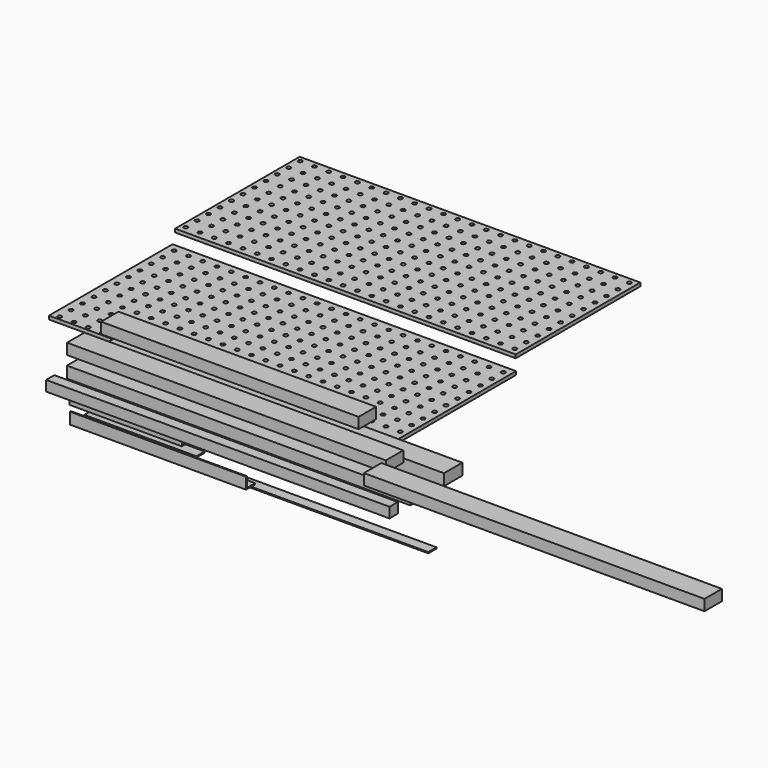
from build123d import *

# Parameters (mm, degrees)
F4_DEPTH  = 196.11
F1_W      = 40
F1_H      = 20
F5_DEPTH  = 600
F0_W      = 40
F0_H      = 20
F6_DEPTH  = 600
F3_W      = 18
F3_H      = 18
F7_DEPTH  = 600
F9_DEPTH  = 308
F11_DEPTH = 234
F12_W     = 600
F12_H     = 270
F12_R     = 3.5
F13_DEPTH = 6
F14_W     = 18
F14_H     = 2
F15_DEPTH = 196.11
F16_W     = 18
F16_H     = 2
F17_DEPTH = 600
F18_W     = 38.1
F18_H     = 19.05
F19_DEPTH = 450
F20_W     = 38.1
F20_H     = 19.05
F21_DEPTH = 556.9
F22_W     = 38.1
F22_H     = 19.05
F23_DEPTH = 595
F24_W     = 595
F24_H     = 272
F24_R     = 3.5
F25_DEPTH = 6


with BuildPart() as f4:
    # F2 (on Right) → F4 (new body)
    with BuildSketch(Plane.YZ):
        Polygon((-56.643954, -13.364066), (-58.643954, -13.364066), (-58.643954, -33.364066), (-38.643954, -33.364066), (-38.643954, -31.364066), (-56.643954, -31.364066), align=None)
    extrude(amount=F4_DEPTH)


with BuildPart() as f5:
    # F1 (on Right) → F5 (new body)
    with BuildSketch(Plane.YZ):
        with Locations((29.062327, 19.138603)):
            Rectangle(F1_W, F1_H)
    extrude(amount=F5_DEPTH)


with BuildPart() as f6:
    # F0 (on Right) → F6 (new body)
    with BuildSketch(Plane.YZ):
        with Locations((-44.326979, 19.392093)):
            Rectangle(F0_W, F0_H)
    extrude(amount=F6_DEPTH)


with BuildPart() as f7:
    # F3 (on Right) → F7 (new body)
    with BuildSketch(Plane.YZ):
        with Locations((-100.903583, 16.894918)):
            Rectangle(F3_W, F3_H)
    extrude(amount=F7_DEPTH)


with BuildPart() as f9:
    # F8 (on Right) → F9 (new body)
    with BuildSketch(Plane.YZ):
        Polygon((-56.192401, -43.8631), (-58.192401, -43.8631), (-58.192401, -63.8631), (-38.192401, -63.8631), (-38.192401, -61.8631), (-56.192401, -61.8631), align=None)
    extrude(amount=F9_DEPTH)


with BuildPart() as f11:
    # F10 (on Right) → F11 (new body)
    with BuildSketch(Plane.YZ):
        Polygon((-24.753585, -13.523948), (-26.753585, -13.523948), (-26.753585, -33.523948), (-6.753585, -33.523948), (-6.753585, -31.523948), (-24.753585, -31.523948), align=None)
    extrude(amount=F11_DEPTH)


with BuildPart() as f13:
    # F12 (on Top) → F13 (new body)
    with BuildSketch(Plane.XY):
        with Locations((160.514176, 205.668966)):
            Rectangle(F12_W, F12_H)
        with Locations((-126.030816, 77.274782)):
            Circle(F12_R, mode=Mode.SUBTRACT)
        with Locations((-101.030816, 77.274782)):
            Circle(F12_R, mode=Mode.SUBTRACT)
        with Locations((-76.030816, 77.274782)):
            Circle(F12_R, mode=Mode.SUBTRACT)
        with Locations((-126.030816, 102.274782)):
            Circle(F12_R, mode=Mode.SUBTRACT)
        with Locations((-101.030816, 102.274782)):
            Circle(F12_R, mode=Mode.SUBTRACT)
        with Locations((-76.030816, 102.274782)):
            Circle(F12_R, mode=Mode.SUBTRACT)
        with Locations((-51.030816, 77.274782)):
            Circle(F12_R, mode=Mode.SUBTRACT)
        with Locations((-26.030816, 77.274782)):
            Circle(F12_R, mode=Mode.SUBTRACT)
        with Locations((-1.030816, 77.274782)):
            Circle(F12_R, mode=Mode.SUBTRACT)
        with Locations((-51.030816, 102.274782)):
            Circle(F12_R, mode=Mode.SUBTRACT)
        with Locations((-26.030816, 102.274782)):
            Circle(F12_R, mode=Mode.SUBTRACT)
        with Locations((-1.030816, 102.274782)):
            Circle(F12_R, mode=Mode.SUBTRACT)
        with Locations((-126.030816, 127.274782)):
            Circle(F12_R, mode=Mode.SUBTRACT)
        with Locations((-101.030816, 127.274782)):
            Circle(F12_R, mode=Mode.SUBTRACT)
        with Locations((-76.030816, 127.274782)):
            Circle(F12_R, mode=Mode.SUBTRACT)
        with Locations((-51.030816, 127.274782)):
            Circle(F12_R, mode=Mode.SUBTRACT)
        with Locations((-26.030816, 127.274782)):
            Circle(F12_R, mode=Mode.SUBTRACT)
        with Locations((-1.030816, 127.274782)):
            Circle(F12_R, mode=Mode.SUBTRACT)
        with Locations((23.969184, 77.274782)):
            Circle(F12_R, mode=Mode.SUBTRACT)
        with Locations((48.969184, 77.274782)):
            Circle(F12_R, mode=Mode.SUBTRACT)
        with Locations((73.969184, 77.274782)):
            Circle(F12_R, mode=Mode.SUBTRACT)
        with Locations((23.969184, 102.274782)):
            Circle(F12_R, mode=Mode.SUBTRACT)
        with Locations((48.969184, 102.274782)):
            Circle(F12_R, mode=Mode.SUBTRACT)
        with Locations((73.969184, 102.274782)):
            Circle(F12_R, mode=Mode.SUBTRACT)
        with Locations((98.969184, 77.274782)):
            Circle(F12_R, mode=Mode.SUBTRACT)
        with Locations((123.969184, 77.274782)):
            Circle(F12_R, mode=Mode.SUBTRACT)
        with Locations((148.969184, 77.274782)):
            Circle(F12_R, mode=Mode.SUBTRACT)
        with Locations((98.969184, 102.274782)):
            Circle(F12_R, mode=Mode.SUBTRACT)
        with Locations((123.969184, 102.274782)):
            Circle(F12_R, mode=Mode.SUBTRACT)
        with Locations((148.969184, 102.274782)):
            Circle(F12_R, mode=Mode.SUBTRACT)
        with Locations((23.969184, 127.274782)):
            Circle(F12_R, mode=Mode.SUBTRACT)
        with Locations((48.969184, 127.274782)):
            Circle(F12_R, mode=Mode.SUBTRACT)
        with Locations((73.969184, 127.274782)):
            Circle(F12_R, mode=Mode.SUBTRACT)
        with Locations((98.969184, 127.274782)):
            Circle(F12_R, mode=Mode.SUBTRACT)
        with Locations((123.969184, 127.274782)):
            Circle(F12_R, mode=Mode.SUBTRACT)
        with Locations((148.969184, 127.274782)):
            Circle(F12_R, mode=Mode.SUBTRACT)
        with Locations((-126.030816, 152.274782)):
            Circle(F12_R, mode=Mode.SUBTRACT)
        with Locations((-101.030816, 152.274782)):
            Circle(F12_R, mode=Mode.SUBTRACT)
        with Locations((-76.030816, 152.274782)):
            Circle(F12_R, mode=Mode.SUBTRACT)
        with Locations((-51.030816, 152.274782)):
            Circle(F12_R, mode=Mode.SUBTRACT)
        with Locations((-26.030816, 152.274782)):
            Circle(F12_R, mode=Mode.SUBTRACT)
        with Locations((-1.030816, 152.274782)):
            Circle(F12_R, mode=Mode.SUBTRACT)
        with Locations((-126.030816, 177.274782)):
            Circle(F12_R, mode=Mode.SUBTRACT)
        with Locations((-101.030816, 177.274782)):
            Circle(F12_R, mode=Mode.SUBTRACT)
        with Locations((-76.030816, 177.274782)):
            Circle(F12_R, mode=Mode.SUBTRACT)
        with Locations((-126.030816, 202.274782)):
            Circle(F12_R, mode=Mode.SUBTRACT)
        with Locations((-101.030816, 202.274782)):
            Circle(F12_R, mode=Mode.SUBTRACT)
        with Locations((-76.030816, 202.274782)):
            Circle(F12_R, mode=Mode.SUBTRACT)
        with Locations((-51.030816, 177.274782)):
            Circle(F12_R, mode=Mode.SUBTRACT)
        with Locations((-26.030816, 177.274782)):
            Circle(F12_R, mode=Mode.SUBTRACT)
        with Locations((-1.030816, 177.274782)):
            Circle(F12_R, mode=Mode.SUBTRACT)
        with Locations((-51.030816, 202.274782)):
            Circle(F12_R, mode=Mode.SUBTRACT)
        with Locations((-26.030816, 202.274782)):
            Circle(F12_R, mode=Mode.SUBTRACT)
        with Locations((-1.030816, 202.274782)):
            Circle(F12_R, mode=Mode.SUBTRACT)
        with Locations((23.969184, 152.274782)):
            Circle(F12_R, mode=Mode.SUBTRACT)
        with Locations((48.969184, 152.274782)):
            Circle(F12_R, mode=Mode.SUBTRACT)
        with Locations((73.969184, 152.274782)):
            Circle(F12_R, mode=Mode.SUBTRACT)
        with Locations((98.969184, 152.274782)):
            Circle(F12_R, mode=Mode.SUBTRACT)
        with Locations((123.969184, 152.274782)):
            Circle(F12_R, mode=Mode.SUBTRACT)
        with Locations((148.969184, 152.274782)):
            Circle(F12_R, mode=Mode.SUBTRACT)
        with Locations((23.969184, 177.274782)):
            Circle(F12_R, mode=Mode.SUBTRACT)
        with Locations((48.969184, 177.274782)):
            Circle(F12_R, mode=Mode.SUBTRACT)
        with Locations((73.969184, 177.274782)):
            Circle(F12_R, mode=Mode.SUBTRACT)
        with Locations((23.969184, 202.274782)):
            Circle(F12_R, mode=Mode.SUBTRACT)
        with Locations((48.969184, 202.274782)):
            Circle(F12_R, mode=Mode.SUBTRACT)
        with Locations((73.969184, 202.274782)):
            Circle(F12_R, mode=Mode.SUBTRACT)
        with Locations((98.969184, 177.274782)):
            Circle(F12_R, mode=Mode.SUBTRACT)
        with Locations((123.969184, 177.274782)):
            Circle(F12_R, mode=Mode.SUBTRACT)
        with Locations((148.969184, 177.274782)):
            Circle(F12_R, mode=Mode.SUBTRACT)
        with Locations((98.969184, 202.274782)):
            Circle(F12_R, mode=Mode.SUBTRACT)
        with Locations((123.969184, 202.274782)):
            Circle(F12_R, mode=Mode.SUBTRACT)
        with Locations((148.969184, 202.274782)):
            Circle(F12_R, mode=Mode.SUBTRACT)
        with Locations((173.969184, 77.274782)):
            Circle(F12_R, mode=Mode.SUBTRACT)
        with Locations((198.969184, 77.274782)):
            Circle(F12_R, mode=Mode.SUBTRACT)
        with Locations((223.969184, 77.274782)):
            Circle(F12_R, mode=Mode.SUBTRACT)
        with Locations((173.969184, 102.274782)):
            Circle(F12_R, mode=Mode.SUBTRACT)
        with Locations((198.969184, 102.274782)):
            Circle(F12_R, mode=Mode.SUBTRACT)
        with Locations((223.969184, 102.274782)):
            Circle(F12_R, mode=Mode.SUBTRACT)
        with Locations((248.969184, 77.274782)):
            Circle(F12_R, mode=Mode.SUBTRACT)
        with Locations((273.969184, 77.274782)):
            Circle(F12_R, mode=Mode.SUBTRACT)
        with Locations((298.969184, 77.274782)):
            Circle(F12_R, mode=Mode.SUBTRACT)
        with Locations((248.969184, 102.274782)):
            Circle(F12_R, mode=Mode.SUBTRACT)
        with Locations((273.969184, 102.274782)):
            Circle(F12_R, mode=Mode.SUBTRACT)
        with Locations((298.969184, 102.274782)):
            Circle(F12_R, mode=Mode.SUBTRACT)
        with Locations((173.969184, 127.274782)):
            Circle(F12_R, mode=Mode.SUBTRACT)
        with Locations((198.969184, 127.274782)):
            Circle(F12_R, mode=Mode.SUBTRACT)
        with Locations((223.969184, 127.274782)):
            Circle(F12_R, mode=Mode.SUBTRACT)
        with Locations((248.969184, 127.274782)):
            Circle(F12_R, mode=Mode.SUBTRACT)
        with Locations((273.969184, 127.274782)):
            Circle(F12_R, mode=Mode.SUBTRACT)
        with Locations((298.969184, 127.274782)):
            Circle(F12_R, mode=Mode.SUBTRACT)
        with Locations((323.969184, 77.274782)):
            Circle(F12_R, mode=Mode.SUBTRACT)
        with Locations((348.969184, 77.274782)):
            Circle(F12_R, mode=Mode.SUBTRACT)
        with Locations((373.969184, 77.274782)):
            Circle(F12_R, mode=Mode.SUBTRACT)
        with Locations((323.969184, 102.274782)):
            Circle(F12_R, mode=Mode.SUBTRACT)
        with Locations((348.969184, 102.274782)):
            Circle(F12_R, mode=Mode.SUBTRACT)
        with Locations((373.969184, 102.274782)):
            Circle(F12_R, mode=Mode.SUBTRACT)
        with Locations((398.969184, 77.274782)):
            Circle(F12_R, mode=Mode.SUBTRACT)
        with Locations((423.969184, 77.274782)):
            Circle(F12_R, mode=Mode.SUBTRACT)
        with Locations((448.969184, 77.274782)):
            Circle(F12_R, mode=Mode.SUBTRACT)
        with Locations((398.969184, 102.274782)):
            Circle(F12_R, mode=Mode.SUBTRACT)
        with Locations((423.969184, 102.274782)):
            Circle(F12_R, mode=Mode.SUBTRACT)
        with Locations((448.969184, 102.274782)):
            Circle(F12_R, mode=Mode.SUBTRACT)
        with Locations((323.969184, 127.274782)):
            Circle(F12_R, mode=Mode.SUBTRACT)
        with Locations((348.969184, 127.274782)):
            Circle(F12_R, mode=Mode.SUBTRACT)
        with Locations((373.969184, 127.274782)):
            Circle(F12_R, mode=Mode.SUBTRACT)
        with Locations((398.969184, 127.274782)):
            Circle(F12_R, mode=Mode.SUBTRACT)
        with Locations((423.969184, 127.274782)):
            Circle(F12_R, mode=Mode.SUBTRACT)
        with Locations((448.969184, 127.274782)):
            Circle(F12_R, mode=Mode.SUBTRACT)
        with Locations((173.969184, 152.274782)):
            Circle(F12_R, mode=Mode.SUBTRACT)
        with Locations((198.969184, 152.274782)):
            Circle(F12_R, mode=Mode.SUBTRACT)
        with Locations((223.969184, 152.274782)):
            Circle(F12_R, mode=Mode.SUBTRACT)
        with Locations((248.969184, 152.274782)):
            Circle(F12_R, mode=Mode.SUBTRACT)
        with Locations((273.969184, 152.274782)):
            Circle(F12_R, mode=Mode.SUBTRACT)
        with Locations((298.969184, 152.274782)):
            Circle(F12_R, mode=Mode.SUBTRACT)
        with Locations((173.969184, 177.274782)):
            Circle(F12_R, mode=Mode.SUBTRACT)
        with Locations((198.969184, 177.274782)):
            Circle(F12_R, mode=Mode.SUBTRACT)
        with Locations((223.969184, 177.274782)):
            Circle(F12_R, mode=Mode.SUBTRACT)
        with Locations((173.969184, 202.274782)):
            Circle(F12_R, mode=Mode.SUBTRACT)
        with Locations((198.969184, 202.274782)):
            Circle(F12_R, mode=Mode.SUBTRACT)
        with Locations((223.969184, 202.274782)):
            Circle(F12_R, mode=Mode.SUBTRACT)
        with Locations((248.969184, 177.274782)):
            Circle(F12_R, mode=Mode.SUBTRACT)
        with Locations((273.969184, 177.274782)):
            Circle(F12_R, mode=Mode.SUBTRACT)
        with Locations((298.969184, 177.274782)):
            Circle(F12_R, mode=Mode.SUBTRACT)
        with Locations((248.969184, 202.274782)):
            Circle(F12_R, mode=Mode.SUBTRACT)
        with Locations((273.969184, 202.274782)):
            Circle(F12_R, mode=Mode.SUBTRACT)
        with Locations((298.969184, 202.274782)):
            Circle(F12_R, mode=Mode.SUBTRACT)
        with Locations((323.969184, 152.274782)):
            Circle(F12_R, mode=Mode.SUBTRACT)
        with Locations((348.969184, 152.274782)):
            Circle(F12_R, mode=Mode.SUBTRACT)
        with Locations((373.969184, 152.274782)):
            Circle(F12_R, mode=Mode.SUBTRACT)
        with Locations((398.969184, 152.274782)):
            Circle(F12_R, mode=Mode.SUBTRACT)
        with Locations((423.969184, 152.274782)):
            Circle(F12_R, mode=Mode.SUBTRACT)
        with Locations((448.969184, 152.274782)):
            Circle(F12_R, mode=Mode.SUBTRACT)
        with Locations((323.969184, 177.274782)):
            Circle(F12_R, mode=Mode.SUBTRACT)
        with Locations((348.969184, 177.274782)):
            Circle(F12_R, mode=Mode.SUBTRACT)
        with Locations((373.969184, 177.274782)):
            Circle(F12_R, mode=Mode.SUBTRACT)
        with Locations((323.969184, 202.274782)):
            Circle(F12_R, mode=Mode.SUBTRACT)
        with Locations((348.969184, 202.274782)):
            Circle(F12_R, mode=Mode.SUBTRACT)
        with Locations((373.969184, 202.274782)):
            Circle(F12_R, mode=Mode.SUBTRACT)
        with Locations((398.969184, 177.274782)):
            Circle(F12_R, mode=Mode.SUBTRACT)
        with Locations((423.969184, 177.274782)):
            Circle(F12_R, mode=Mode.SUBTRACT)
        with Locations((448.969184, 177.274782)):
            Circle(F12_R, mode=Mode.SUBTRACT)
        with Locations((398.969184, 202.274782)):
            Circle(F12_R, mode=Mode.SUBTRACT)
        with Locations((423.969184, 202.274782)):
            Circle(F12_R, mode=Mode.SUBTRACT)
        with Locations((448.969184, 202.274782)):
            Circle(F12_R, mode=Mode.SUBTRACT)
        with Locations((-126.030816, 227.274782)):
            Circle(F12_R, mode=Mode.SUBTRACT)
        with Locations((-101.030816, 227.274782)):
            Circle(F12_R, mode=Mode.SUBTRACT)
        with Locations((-76.030816, 227.274782)):
            Circle(F12_R, mode=Mode.SUBTRACT)
        with Locations((-51.030816, 227.274782)):
            Circle(F12_R, mode=Mode.SUBTRACT)
        with Locations((-26.030816, 227.274782)):
            Circle(F12_R, mode=Mode.SUBTRACT)
        with Locations((-1.030816, 227.274782)):
            Circle(F12_R, mode=Mode.SUBTRACT)
        with Locations((-126.030816, 252.274782)):
            Circle(F12_R, mode=Mode.SUBTRACT)
        with Locations((-101.030816, 252.274782)):
            Circle(F12_R, mode=Mode.SUBTRACT)
        with Locations((-76.030816, 252.274782)):
            Circle(F12_R, mode=Mode.SUBTRACT)
        with Locations((-51.030816, 252.274782)):
            Circle(F12_R, mode=Mode.SUBTRACT)
        with Locations((-26.030816, 252.274782)):
            Circle(F12_R, mode=Mode.SUBTRACT)
        with Locations((-1.030816, 252.274782)):
            Circle(F12_R, mode=Mode.SUBTRACT)
        with Locations((23.969184, 227.274782)):
            Circle(F12_R, mode=Mode.SUBTRACT)
        with Locations((48.969184, 227.274782)):
            Circle(F12_R, mode=Mode.SUBTRACT)
        with Locations((73.969184, 227.274782)):
            Circle(F12_R, mode=Mode.SUBTRACT)
        with Locations((98.969184, 227.274782)):
            Circle(F12_R, mode=Mode.SUBTRACT)
        with Locations((123.969184, 227.274782)):
            Circle(F12_R, mode=Mode.SUBTRACT)
        with Locations((148.969184, 227.274782)):
            Circle(F12_R, mode=Mode.SUBTRACT)
        with Locations((23.969184, 252.274782)):
            Circle(F12_R, mode=Mode.SUBTRACT)
        with Locations((48.969184, 252.274782)):
            Circle(F12_R, mode=Mode.SUBTRACT)
        with Locations((73.969184, 252.274782)):
            Circle(F12_R, mode=Mode.SUBTRACT)
        with Locations((98.969184, 252.274782)):
            Circle(F12_R, mode=Mode.SUBTRACT)
        with Locations((123.969184, 252.274782)):
            Circle(F12_R, mode=Mode.SUBTRACT)
        with Locations((148.969184, 252.274782)):
            Circle(F12_R, mode=Mode.SUBTRACT)
        with Locations((-126.030816, 277.274782)):
            Circle(F12_R, mode=Mode.SUBTRACT)
        with Locations((-101.030816, 277.274782)):
            Circle(F12_R, mode=Mode.SUBTRACT)
        with Locations((-76.030816, 277.274782)):
            Circle(F12_R, mode=Mode.SUBTRACT)
        with Locations((-126.030816, 302.274782)):
            Circle(F12_R, mode=Mode.SUBTRACT)
        with Locations((-101.030816, 302.274782)):
            Circle(F12_R, mode=Mode.SUBTRACT)
        with Locations((-76.030816, 302.274782)):
            Circle(F12_R, mode=Mode.SUBTRACT)
        with Locations((-51.030816, 277.274782)):
            Circle(F12_R, mode=Mode.SUBTRACT)
        with Locations((-26.030816, 277.274782)):
            Circle(F12_R, mode=Mode.SUBTRACT)
        with Locations((-1.030816, 277.274782)):
            Circle(F12_R, mode=Mode.SUBTRACT)
        with Locations((-51.030816, 302.274782)):
            Circle(F12_R, mode=Mode.SUBTRACT)
        with Locations((-26.030816, 302.274782)):
            Circle(F12_R, mode=Mode.SUBTRACT)
        with Locations((-1.030816, 302.274782)):
            Circle(F12_R, mode=Mode.SUBTRACT)
        with Locations((-126.030816, 327.274782)):
            Circle(F12_R, mode=Mode.SUBTRACT)
        with Locations((-101.030816, 327.274782)):
            Circle(F12_R, mode=Mode.SUBTRACT)
        with Locations((-76.030816, 327.274782)):
            Circle(F12_R, mode=Mode.SUBTRACT)
        with Locations((-51.030816, 327.274782)):
            Circle(F12_R, mode=Mode.SUBTRACT)
        with Locations((-26.030816, 327.274782)):
            Circle(F12_R, mode=Mode.SUBTRACT)
        with Locations((-1.030816, 327.274782)):
            Circle(F12_R, mode=Mode.SUBTRACT)
        with Locations((23.969184, 277.274782)):
            Circle(F12_R, mode=Mode.SUBTRACT)
        with Locations((48.969184, 277.274782)):
            Circle(F12_R, mode=Mode.SUBTRACT)
        with Locations((73.969184, 277.274782)):
            Circle(F12_R, mode=Mode.SUBTRACT)
        with Locations((23.969184, 302.274782)):
            Circle(F12_R, mode=Mode.SUBTRACT)
        with Locations((48.969184, 302.274782)):
            Circle(F12_R, mode=Mode.SUBTRACT)
        with Locations((73.969184, 302.274782)):
            Circle(F12_R, mode=Mode.SUBTRACT)
        with Locations((98.969184, 277.274782)):
            Circle(F12_R, mode=Mode.SUBTRACT)
        with Locations((123.969184, 277.274782)):
            Circle(F12_R, mode=Mode.SUBTRACT)
        with Locations((148.969184, 277.274782)):
            Circle(F12_R, mode=Mode.SUBTRACT)
        with Locations((98.969184, 302.274782)):
            Circle(F12_R, mode=Mode.SUBTRACT)
        with Locations((123.969184, 302.274782)):
            Circle(F12_R, mode=Mode.SUBTRACT)
        with Locations((148.969184, 302.274782)):
            Circle(F12_R, mode=Mode.SUBTRACT)
        with Locations((23.969184, 327.274782)):
            Circle(F12_R, mode=Mode.SUBTRACT)
        with Locations((48.969184, 327.274782)):
            Circle(F12_R, mode=Mode.SUBTRACT)
        with Locations((73.969184, 327.274782)):
            Circle(F12_R, mode=Mode.SUBTRACT)
        with Locations((98.969184, 327.274782)):
            Circle(F12_R, mode=Mode.SUBTRACT)
        with Locations((123.969184, 327.274782)):
            Circle(F12_R, mode=Mode.SUBTRACT)
        with Locations((148.969184, 327.274782)):
            Circle(F12_R, mode=Mode.SUBTRACT)
        with Locations((173.969184, 227.274782)):
            Circle(F12_R, mode=Mode.SUBTRACT)
        with Locations((198.969184, 227.274782)):
            Circle(F12_R, mode=Mode.SUBTRACT)
        with Locations((223.969184, 227.274782)):
            Circle(F12_R, mode=Mode.SUBTRACT)
        with Locations((248.969184, 227.274782)):
            Circle(F12_R, mode=Mode.SUBTRACT)
        with Locations((273.969184, 227.274782)):
            Circle(F12_R, mode=Mode.SUBTRACT)
        with Locations((298.969184, 227.274782)):
            Circle(F12_R, mode=Mode.SUBTRACT)
        with Locations((173.969184, 252.274782)):
            Circle(F12_R, mode=Mode.SUBTRACT)
        with Locations((198.969184, 252.274782)):
            Circle(F12_R, mode=Mode.SUBTRACT)
        with Locations((223.969184, 252.274782)):
            Circle(F12_R, mode=Mode.SUBTRACT)
        with Locations((248.969184, 252.274782)):
            Circle(F12_R, mode=Mode.SUBTRACT)
        with Locations((273.969184, 252.274782)):
            Circle(F12_R, mode=Mode.SUBTRACT)
        with Locations((298.969184, 252.274782)):
            Circle(F12_R, mode=Mode.SUBTRACT)
        with Locations((323.969184, 227.274782)):
            Circle(F12_R, mode=Mode.SUBTRACT)
        with Locations((348.969184, 227.274782)):
            Circle(F12_R, mode=Mode.SUBTRACT)
        with Locations((373.969184, 227.274782)):
            Circle(F12_R, mode=Mode.SUBTRACT)
        with Locations((398.969184, 227.274782)):
            Circle(F12_R, mode=Mode.SUBTRACT)
        with Locations((423.969184, 227.274782)):
            Circle(F12_R, mode=Mode.SUBTRACT)
        with Locations((448.969184, 227.274782)):
            Circle(F12_R, mode=Mode.SUBTRACT)
        with Locations((323.969184, 252.274782)):
            Circle(F12_R, mode=Mode.SUBTRACT)
        with Locations((348.969184, 252.274782)):
            Circle(F12_R, mode=Mode.SUBTRACT)
        with Locations((373.969184, 252.274782)):
            Circle(F12_R, mode=Mode.SUBTRACT)
        with Locations((398.969184, 252.274782)):
            Circle(F12_R, mode=Mode.SUBTRACT)
        with Locations((423.969184, 252.274782)):
            Circle(F12_R, mode=Mode.SUBTRACT)
        with Locations((448.969184, 252.274782)):
            Circle(F12_R, mode=Mode.SUBTRACT)
        with Locations((173.969184, 277.274782)):
            Circle(F12_R, mode=Mode.SUBTRACT)
        with Locations((198.969184, 277.274782)):
            Circle(F12_R, mode=Mode.SUBTRACT)
        with Locations((223.969184, 277.274782)):
            Circle(F12_R, mode=Mode.SUBTRACT)
        with Locations((173.969184, 302.274782)):
            Circle(F12_R, mode=Mode.SUBTRACT)
        with Locations((198.969184, 302.274782)):
            Circle(F12_R, mode=Mode.SUBTRACT)
        with Locations((223.969184, 302.274782)):
            Circle(F12_R, mode=Mode.SUBTRACT)
        with Locations((248.969184, 277.274782)):
            Circle(F12_R, mode=Mode.SUBTRACT)
        with Locations((273.969184, 277.274782)):
            Circle(F12_R, mode=Mode.SUBTRACT)
        with Locations((298.969184, 277.274782)):
            Circle(F12_R, mode=Mode.SUBTRACT)
        with Locations((248.969184, 302.274782)):
            Circle(F12_R, mode=Mode.SUBTRACT)
        with Locations((273.969184, 302.274782)):
            Circle(F12_R, mode=Mode.SUBTRACT)
        with Locations((298.969184, 302.274782)):
            Circle(F12_R, mode=Mode.SUBTRACT)
        with Locations((173.969184, 327.274782)):
            Circle(F12_R, mode=Mode.SUBTRACT)
        with Locations((198.969184, 327.274782)):
            Circle(F12_R, mode=Mode.SUBTRACT)
        with Locations((223.969184, 327.274782)):
            Circle(F12_R, mode=Mode.SUBTRACT)
        with Locations((248.969184, 327.274782)):
            Circle(F12_R, mode=Mode.SUBTRACT)
        with Locations((273.969184, 327.274782)):
            Circle(F12_R, mode=Mode.SUBTRACT)
        with Locations((298.969184, 327.274782)):
            Circle(F12_R, mode=Mode.SUBTRACT)
        with Locations((323.969184, 277.274782)):
            Circle(F12_R, mode=Mode.SUBTRACT)
        with Locations((348.969184, 277.274782)):
            Circle(F12_R, mode=Mode.SUBTRACT)
        with Locations((373.969184, 277.274782)):
            Circle(F12_R, mode=Mode.SUBTRACT)
        with Locations((323.969184, 302.274782)):
            Circle(F12_R, mode=Mode.SUBTRACT)
        with Locations((348.969184, 302.274782)):
            Circle(F12_R, mode=Mode.SUBTRACT)
        with Locations((373.969184, 302.274782)):
            Circle(F12_R, mode=Mode.SUBTRACT)
        with Locations((398.969184, 277.274782)):
            Circle(F12_R, mode=Mode.SUBTRACT)
        with Locations((423.969184, 277.274782)):
            Circle(F12_R, mode=Mode.SUBTRACT)
        with Locations((448.969184, 277.274782)):
            Circle(F12_R, mode=Mode.SUBTRACT)
        with Locations((398.969184, 302.274782)):
            Circle(F12_R, mode=Mode.SUBTRACT)
        with Locations((423.969184, 302.274782)):
            Circle(F12_R, mode=Mode.SUBTRACT)
        with Locations((448.969184, 302.274782)):
            Circle(F12_R, mode=Mode.SUBTRACT)
        with Locations((323.969184, 327.274782)):
            Circle(F12_R, mode=Mode.SUBTRACT)
        with Locations((348.969184, 327.274782)):
            Circle(F12_R, mode=Mode.SUBTRACT)
        with Locations((373.969184, 327.274782)):
            Circle(F12_R, mode=Mode.SUBTRACT)
        with Locations((398.969184, 327.274782)):
            Circle(F12_R, mode=Mode.SUBTRACT)
        with Locations((423.969184, 327.274782)):
            Circle(F12_R, mode=Mode.SUBTRACT)
        with Locations((448.969184, 327.274782)):
            Circle(F12_R, mode=Mode.SUBTRACT)
    extrude(amount=F13_DEPTH)


with BuildPart() as f15:
    # F14 (on Right) → F15 (new body)
    with BuildSketch(Plane.YZ):
        with Locations((-17.646617, -62.635644)):
            Rectangle(F14_W, F14_H)
    extrude(amount=F15_DEPTH)


with BuildPart() as f17:
    # F16 (on Right) → F17 (new body)
    with BuildSketch(Plane.YZ):
        with Locations((-16.287069, -79.179421)):
            Rectangle(F16_W, F16_H)
    extrude(amount=F17_DEPTH)


with BuildPart() as f19:
    # F18 (on Right) → F19 (new body)
    with BuildSketch(Plane.YZ):
        with Locations((29.15175, 57.062805)):
            Rectangle(F18_W, F18_H)
    extrude(amount=F19_DEPTH)


with BuildPart() as f21:
    # F20 (on Right) → F21 (new body)
    with BuildSketch(Plane.YZ):
        with Locations((-45.109646, 55.011767)):
            Rectangle(F20_W, F20_H)
    extrude(amount=F21_DEPTH)


with BuildPart() as f23:
    # F22 (on face) → F23 (new body)
    with BuildSketch(Plane.YZ.offset(556.9)):
        with Locations((-92.969881, 55.011767)):
            Rectangle(F22_W, F22_H)
    extrude(amount=F23_DEPTH)


with BuildPart() as f25:
    # F24 (on Top) → F25 (new body)
    with BuildSketch(Plane.XY):
        with Locations((131.922468, 514.909707)):
            Rectangle(F24_W, F24_H)
        with Locations((-156.907922, 391.139166)):
            Circle(F24_R, mode=Mode.SUBTRACT)
        with Locations((-131.907922, 391.139166)):
            Circle(F24_R, mode=Mode.SUBTRACT)
        with Locations((-106.907922, 391.139166)):
            Circle(F24_R, mode=Mode.SUBTRACT)
        with Locations((-81.907922, 391.139166)):
            Circle(F24_R, mode=Mode.SUBTRACT)
        with Locations((-56.907922, 391.139166)):
            Circle(F24_R, mode=Mode.SUBTRACT)
        with Locations((-31.907922, 391.139166)):
            Circle(F24_R, mode=Mode.SUBTRACT)
        with Locations((-156.907922, 416.139166)):
            Circle(F24_R, mode=Mode.SUBTRACT)
        with Locations((-131.907922, 416.139166)):
            Circle(F24_R, mode=Mode.SUBTRACT)
        with Locations((-106.907922, 416.139166)):
            Circle(F24_R, mode=Mode.SUBTRACT)
        with Locations((-156.907922, 441.139166)):
            Circle(F24_R, mode=Mode.SUBTRACT)
        with Locations((-131.907922, 441.139166)):
            Circle(F24_R, mode=Mode.SUBTRACT)
        with Locations((-106.907922, 441.139166)):
            Circle(F24_R, mode=Mode.SUBTRACT)
        with Locations((-81.907922, 416.139166)):
            Circle(F24_R, mode=Mode.SUBTRACT)
        with Locations((-56.907922, 416.139166)):
            Circle(F24_R, mode=Mode.SUBTRACT)
        with Locations((-31.907922, 416.139166)):
            Circle(F24_R, mode=Mode.SUBTRACT)
        with Locations((-81.907922, 441.139166)):
            Circle(F24_R, mode=Mode.SUBTRACT)
        with Locations((-56.907922, 441.139166)):
            Circle(F24_R, mode=Mode.SUBTRACT)
        with Locations((-31.907922, 441.139166)):
            Circle(F24_R, mode=Mode.SUBTRACT)
        with Locations((-6.907922, 391.139166)):
            Circle(F24_R, mode=Mode.SUBTRACT)
        with Locations((18.092078, 391.139166)):
            Circle(F24_R, mode=Mode.SUBTRACT)
        with Locations((43.092078, 391.139166)):
            Circle(F24_R, mode=Mode.SUBTRACT)
        with Locations((68.092078, 391.139166)):
            Circle(F24_R, mode=Mode.SUBTRACT)
        with Locations((93.092078, 391.139166)):
            Circle(F24_R, mode=Mode.SUBTRACT)
        with Locations((118.092078, 391.139166)):
            Circle(F24_R, mode=Mode.SUBTRACT)
        with Locations((-6.907922, 416.139166)):
            Circle(F24_R, mode=Mode.SUBTRACT)
        with Locations((18.092078, 416.139166)):
            Circle(F24_R, mode=Mode.SUBTRACT)
        with Locations((43.092078, 416.139166)):
            Circle(F24_R, mode=Mode.SUBTRACT)
        with Locations((-6.907922, 441.139166)):
            Circle(F24_R, mode=Mode.SUBTRACT)
        with Locations((18.092078, 441.139166)):
            Circle(F24_R, mode=Mode.SUBTRACT)
        with Locations((43.092078, 441.139166)):
            Circle(F24_R, mode=Mode.SUBTRACT)
        with Locations((68.092078, 416.139166)):
            Circle(F24_R, mode=Mode.SUBTRACT)
        with Locations((93.092078, 416.139166)):
            Circle(F24_R, mode=Mode.SUBTRACT)
        with Locations((118.092078, 416.139166)):
            Circle(F24_R, mode=Mode.SUBTRACT)
        with Locations((68.092078, 441.139166)):
            Circle(F24_R, mode=Mode.SUBTRACT)
        with Locations((93.092078, 441.139166)):
            Circle(F24_R, mode=Mode.SUBTRACT)
        with Locations((118.092078, 441.139166)):
            Circle(F24_R, mode=Mode.SUBTRACT)
        with Locations((-156.907922, 466.139166)):
            Circle(F24_R, mode=Mode.SUBTRACT)
        with Locations((-131.907922, 466.139166)):
            Circle(F24_R, mode=Mode.SUBTRACT)
        with Locations((-106.907922, 466.139166)):
            Circle(F24_R, mode=Mode.SUBTRACT)
        with Locations((-81.907922, 466.139166)):
            Circle(F24_R, mode=Mode.SUBTRACT)
        with Locations((-56.907922, 466.139166)):
            Circle(F24_R, mode=Mode.SUBTRACT)
        with Locations((-31.907922, 466.139166)):
            Circle(F24_R, mode=Mode.SUBTRACT)
        with Locations((-156.907922, 491.139166)):
            Circle(F24_R, mode=Mode.SUBTRACT)
        with Locations((-131.907922, 491.139166)):
            Circle(F24_R, mode=Mode.SUBTRACT)
        with Locations((-106.907922, 491.139166)):
            Circle(F24_R, mode=Mode.SUBTRACT)
        with Locations((-81.907922, 491.139166)):
            Circle(F24_R, mode=Mode.SUBTRACT)
        with Locations((-56.907922, 491.139166)):
            Circle(F24_R, mode=Mode.SUBTRACT)
        with Locations((-31.907922, 491.139166)):
            Circle(F24_R, mode=Mode.SUBTRACT)
        with Locations((-6.907922, 466.139166)):
            Circle(F24_R, mode=Mode.SUBTRACT)
        with Locations((18.092078, 466.139166)):
            Circle(F24_R, mode=Mode.SUBTRACT)
        with Locations((43.092078, 466.139166)):
            Circle(F24_R, mode=Mode.SUBTRACT)
        with Locations((68.092078, 466.139166)):
            Circle(F24_R, mode=Mode.SUBTRACT)
        with Locations((93.092078, 466.139166)):
            Circle(F24_R, mode=Mode.SUBTRACT)
        with Locations((118.092078, 466.139166)):
            Circle(F24_R, mode=Mode.SUBTRACT)
        with Locations((-6.907922, 491.139166)):
            Circle(F24_R, mode=Mode.SUBTRACT)
        with Locations((18.092078, 491.139166)):
            Circle(F24_R, mode=Mode.SUBTRACT)
        with Locations((43.092078, 491.139166)):
            Circle(F24_R, mode=Mode.SUBTRACT)
        with Locations((68.092078, 491.139166)):
            Circle(F24_R, mode=Mode.SUBTRACT)
        with Locations((93.092078, 491.139166)):
            Circle(F24_R, mode=Mode.SUBTRACT)
        with Locations((118.092078, 491.139166)):
            Circle(F24_R, mode=Mode.SUBTRACT)
        with Locations((143.092078, 391.139166)):
            Circle(F24_R, mode=Mode.SUBTRACT)
        with Locations((168.092078, 391.139166)):
            Circle(F24_R, mode=Mode.SUBTRACT)
        with Locations((193.092078, 391.139166)):
            Circle(F24_R, mode=Mode.SUBTRACT)
        with Locations((218.092078, 391.139166)):
            Circle(F24_R, mode=Mode.SUBTRACT)
        with Locations((243.092078, 391.139166)):
            Circle(F24_R, mode=Mode.SUBTRACT)
        with Locations((268.092078, 391.139166)):
            Circle(F24_R, mode=Mode.SUBTRACT)
        with Locations((143.092078, 416.139166)):
            Circle(F24_R, mode=Mode.SUBTRACT)
        with Locations((168.092078, 416.139166)):
            Circle(F24_R, mode=Mode.SUBTRACT)
        with Locations((193.092078, 416.139166)):
            Circle(F24_R, mode=Mode.SUBTRACT)
        with Locations((143.092078, 441.139166)):
            Circle(F24_R, mode=Mode.SUBTRACT)
        with Locations((168.092078, 441.139166)):
            Circle(F24_R, mode=Mode.SUBTRACT)
        with Locations((193.092078, 441.139166)):
            Circle(F24_R, mode=Mode.SUBTRACT)
        with Locations((218.092078, 416.139166)):
            Circle(F24_R, mode=Mode.SUBTRACT)
        with Locations((243.092078, 416.139166)):
            Circle(F24_R, mode=Mode.SUBTRACT)
        with Locations((268.092078, 416.139166)):
            Circle(F24_R, mode=Mode.SUBTRACT)
        with Locations((218.092078, 441.139166)):
            Circle(F24_R, mode=Mode.SUBTRACT)
        with Locations((243.092078, 441.139166)):
            Circle(F24_R, mode=Mode.SUBTRACT)
        with Locations((268.092078, 441.139166)):
            Circle(F24_R, mode=Mode.SUBTRACT)
        with Locations((293.092078, 391.139166)):
            Circle(F24_R, mode=Mode.SUBTRACT)
        with Locations((318.092078, 391.139166)):
            Circle(F24_R, mode=Mode.SUBTRACT)
        with Locations((343.092078, 391.139166)):
            Circle(F24_R, mode=Mode.SUBTRACT)
        with Locations((368.092078, 391.139166)):
            Circle(F24_R, mode=Mode.SUBTRACT)
        with Locations((393.092078, 391.139166)):
            Circle(F24_R, mode=Mode.SUBTRACT)
        with Locations((418.092078, 391.139166)):
            Circle(F24_R, mode=Mode.SUBTRACT)
        with Locations((293.092078, 416.139166)):
            Circle(F24_R, mode=Mode.SUBTRACT)
        with Locations((318.092078, 416.139166)):
            Circle(F24_R, mode=Mode.SUBTRACT)
        with Locations((343.092078, 416.139166)):
            Circle(F24_R, mode=Mode.SUBTRACT)
        with Locations((293.092078, 441.139166)):
            Circle(F24_R, mode=Mode.SUBTRACT)
        with Locations((318.092078, 441.139166)):
            Circle(F24_R, mode=Mode.SUBTRACT)
        with Locations((343.092078, 441.139166)):
            Circle(F24_R, mode=Mode.SUBTRACT)
        with Locations((368.092078, 416.139166)):
            Circle(F24_R, mode=Mode.SUBTRACT)
        with Locations((393.092078, 416.139166)):
            Circle(F24_R, mode=Mode.SUBTRACT)
        with Locations((418.092078, 416.139166)):
            Circle(F24_R, mode=Mode.SUBTRACT)
        with Locations((368.092078, 441.139166)):
            Circle(F24_R, mode=Mode.SUBTRACT)
        with Locations((393.092078, 441.139166)):
            Circle(F24_R, mode=Mode.SUBTRACT)
        with Locations((418.092078, 441.139166)):
            Circle(F24_R, mode=Mode.SUBTRACT)
        with Locations((143.092078, 466.139166)):
            Circle(F24_R, mode=Mode.SUBTRACT)
        with Locations((168.092078, 466.139166)):
            Circle(F24_R, mode=Mode.SUBTRACT)
        with Locations((193.092078, 466.139166)):
            Circle(F24_R, mode=Mode.SUBTRACT)
        with Locations((218.092078, 466.139166)):
            Circle(F24_R, mode=Mode.SUBTRACT)
        with Locations((243.092078, 466.139166)):
            Circle(F24_R, mode=Mode.SUBTRACT)
        with Locations((268.092078, 466.139166)):
            Circle(F24_R, mode=Mode.SUBTRACT)
        with Locations((143.092078, 491.139166)):
            Circle(F24_R, mode=Mode.SUBTRACT)
        with Locations((168.092078, 491.139166)):
            Circle(F24_R, mode=Mode.SUBTRACT)
        with Locations((193.092078, 491.139166)):
            Circle(F24_R, mode=Mode.SUBTRACT)
        with Locations((218.092078, 491.139166)):
            Circle(F24_R, mode=Mode.SUBTRACT)
        with Locations((243.092078, 491.139166)):
            Circle(F24_R, mode=Mode.SUBTRACT)
        with Locations((268.092078, 491.139166)):
            Circle(F24_R, mode=Mode.SUBTRACT)
        with Locations((293.092078, 466.139166)):
            Circle(F24_R, mode=Mode.SUBTRACT)
        with Locations((318.092078, 466.139166)):
            Circle(F24_R, mode=Mode.SUBTRACT)
        with Locations((343.092078, 466.139166)):
            Circle(F24_R, mode=Mode.SUBTRACT)
        with Locations((368.092078, 466.139166)):
            Circle(F24_R, mode=Mode.SUBTRACT)
        with Locations((393.092078, 466.139166)):
            Circle(F24_R, mode=Mode.SUBTRACT)
        with Locations((418.092078, 466.139166)):
            Circle(F24_R, mode=Mode.SUBTRACT)
        with Locations((293.092078, 491.139166)):
            Circle(F24_R, mode=Mode.SUBTRACT)
        with Locations((318.092078, 491.139166)):
            Circle(F24_R, mode=Mode.SUBTRACT)
        with Locations((343.092078, 491.139166)):
            Circle(F24_R, mode=Mode.SUBTRACT)
        with Locations((368.092078, 491.139166)):
            Circle(F24_R, mode=Mode.SUBTRACT)
        with Locations((393.092078, 491.139166)):
            Circle(F24_R, mode=Mode.SUBTRACT)
        with Locations((418.092078, 491.139166)):
            Circle(F24_R, mode=Mode.SUBTRACT)
        with Locations((-156.907922, 516.139166)):
            Circle(F24_R, mode=Mode.SUBTRACT)
        with Locations((-131.907922, 516.139166)):
            Circle(F24_R, mode=Mode.SUBTRACT)
        with Locations((-106.907922, 516.139166)):
            Circle(F24_R, mode=Mode.SUBTRACT)
        with Locations((-156.907922, 541.139166)):
            Circle(F24_R, mode=Mode.SUBTRACT)
        with Locations((-131.907922, 541.139166)):
            Circle(F24_R, mode=Mode.SUBTRACT)
        with Locations((-106.907922, 541.139166)):
            Circle(F24_R, mode=Mode.SUBTRACT)
        with Locations((-81.907922, 516.139166)):
            Circle(F24_R, mode=Mode.SUBTRACT)
        with Locations((-56.907922, 516.139166)):
            Circle(F24_R, mode=Mode.SUBTRACT)
        with Locations((-31.907922, 516.139166)):
            Circle(F24_R, mode=Mode.SUBTRACT)
        with Locations((-81.907922, 541.139166)):
            Circle(F24_R, mode=Mode.SUBTRACT)
        with Locations((-56.907922, 541.139166)):
            Circle(F24_R, mode=Mode.SUBTRACT)
        with Locations((-31.907922, 541.139166)):
            Circle(F24_R, mode=Mode.SUBTRACT)
        with Locations((-156.907922, 566.139166)):
            Circle(F24_R, mode=Mode.SUBTRACT)
        with Locations((-131.907922, 566.139166)):
            Circle(F24_R, mode=Mode.SUBTRACT)
        with Locations((-106.907922, 566.139166)):
            Circle(F24_R, mode=Mode.SUBTRACT)
        with Locations((-81.907922, 566.139166)):
            Circle(F24_R, mode=Mode.SUBTRACT)
        with Locations((-56.907922, 566.139166)):
            Circle(F24_R, mode=Mode.SUBTRACT)
        with Locations((-31.907922, 566.139166)):
            Circle(F24_R, mode=Mode.SUBTRACT)
        with Locations((-6.907922, 516.139166)):
            Circle(F24_R, mode=Mode.SUBTRACT)
        with Locations((18.092078, 516.139166)):
            Circle(F24_R, mode=Mode.SUBTRACT)
        with Locations((43.092078, 516.139166)):
            Circle(F24_R, mode=Mode.SUBTRACT)
        with Locations((-6.907922, 541.139166)):
            Circle(F24_R, mode=Mode.SUBTRACT)
        with Locations((18.092078, 541.139166)):
            Circle(F24_R, mode=Mode.SUBTRACT)
        with Locations((43.092078, 541.139166)):
            Circle(F24_R, mode=Mode.SUBTRACT)
        with Locations((68.092078, 516.139166)):
            Circle(F24_R, mode=Mode.SUBTRACT)
        with Locations((93.092078, 516.139166)):
            Circle(F24_R, mode=Mode.SUBTRACT)
        with Locations((118.092078, 516.139166)):
            Circle(F24_R, mode=Mode.SUBTRACT)
        with Locations((68.092078, 541.139166)):
            Circle(F24_R, mode=Mode.SUBTRACT)
        with Locations((93.092078, 541.139166)):
            Circle(F24_R, mode=Mode.SUBTRACT)
        with Locations((118.092078, 541.139166)):
            Circle(F24_R, mode=Mode.SUBTRACT)
        with Locations((-6.907922, 566.139166)):
            Circle(F24_R, mode=Mode.SUBTRACT)
        with Locations((18.092078, 566.139166)):
            Circle(F24_R, mode=Mode.SUBTRACT)
        with Locations((43.092078, 566.139166)):
            Circle(F24_R, mode=Mode.SUBTRACT)
        with Locations((68.092078, 566.139166)):
            Circle(F24_R, mode=Mode.SUBTRACT)
        with Locations((93.092078, 566.139166)):
            Circle(F24_R, mode=Mode.SUBTRACT)
        with Locations((118.092078, 566.139166)):
            Circle(F24_R, mode=Mode.SUBTRACT)
        with Locations((-156.907922, 591.139166)):
            Circle(F24_R, mode=Mode.SUBTRACT)
        with Locations((-131.907922, 591.139166)):
            Circle(F24_R, mode=Mode.SUBTRACT)
        with Locations((-106.907922, 591.139166)):
            Circle(F24_R, mode=Mode.SUBTRACT)
        with Locations((-156.907922, 616.139166)):
            Circle(F24_R, mode=Mode.SUBTRACT)
        with Locations((-131.907922, 616.139166)):
            Circle(F24_R, mode=Mode.SUBTRACT)
        with Locations((-106.907922, 616.139166)):
            Circle(F24_R, mode=Mode.SUBTRACT)
        with Locations((-81.907922, 591.139166)):
            Circle(F24_R, mode=Mode.SUBTRACT)
        with Locations((-56.907922, 591.139166)):
            Circle(F24_R, mode=Mode.SUBTRACT)
        with Locations((-31.907922, 591.139166)):
            Circle(F24_R, mode=Mode.SUBTRACT)
        with Locations((-81.907922, 616.139166)):
            Circle(F24_R, mode=Mode.SUBTRACT)
        with Locations((-56.907922, 616.139166)):
            Circle(F24_R, mode=Mode.SUBTRACT)
        with Locations((-31.907922, 616.139166)):
            Circle(F24_R, mode=Mode.SUBTRACT)
        with Locations((-156.907922, 641.139166)):
            Circle(F24_R, mode=Mode.SUBTRACT)
        with Locations((-131.907922, 641.139166)):
            Circle(F24_R, mode=Mode.SUBTRACT)
        with Locations((-106.907922, 641.139166)):
            Circle(F24_R, mode=Mode.SUBTRACT)
        with Locations((-81.907922, 641.139166)):
            Circle(F24_R, mode=Mode.SUBTRACT)
        with Locations((-56.907922, 641.139166)):
            Circle(F24_R, mode=Mode.SUBTRACT)
        with Locations((-31.907922, 641.139166)):
            Circle(F24_R, mode=Mode.SUBTRACT)
        with Locations((-6.907922, 591.139166)):
            Circle(F24_R, mode=Mode.SUBTRACT)
        with Locations((18.092078, 591.139166)):
            Circle(F24_R, mode=Mode.SUBTRACT)
        with Locations((43.092078, 591.139166)):
            Circle(F24_R, mode=Mode.SUBTRACT)
        with Locations((-6.907922, 616.139166)):
            Circle(F24_R, mode=Mode.SUBTRACT)
        with Locations((18.092078, 616.139166)):
            Circle(F24_R, mode=Mode.SUBTRACT)
        with Locations((43.092078, 616.139166)):
            Circle(F24_R, mode=Mode.SUBTRACT)
        with Locations((68.092078, 591.139166)):
            Circle(F24_R, mode=Mode.SUBTRACT)
        with Locations((93.092078, 591.139166)):
            Circle(F24_R, mode=Mode.SUBTRACT)
        with Locations((118.092078, 591.139166)):
            Circle(F24_R, mode=Mode.SUBTRACT)
        with Locations((68.092078, 616.139166)):
            Circle(F24_R, mode=Mode.SUBTRACT)
        with Locations((93.092078, 616.139166)):
            Circle(F24_R, mode=Mode.SUBTRACT)
        with Locations((118.092078, 616.139166)):
            Circle(F24_R, mode=Mode.SUBTRACT)
        with Locations((-6.907922, 641.139166)):
            Circle(F24_R, mode=Mode.SUBTRACT)
        with Locations((18.092078, 641.139166)):
            Circle(F24_R, mode=Mode.SUBTRACT)
        with Locations((43.092078, 641.139166)):
            Circle(F24_R, mode=Mode.SUBTRACT)
        with Locations((68.092078, 641.139166)):
            Circle(F24_R, mode=Mode.SUBTRACT)
        with Locations((93.092078, 641.139166)):
            Circle(F24_R, mode=Mode.SUBTRACT)
        with Locations((118.092078, 641.139166)):
            Circle(F24_R, mode=Mode.SUBTRACT)
        with Locations((143.092078, 516.139166)):
            Circle(F24_R, mode=Mode.SUBTRACT)
        with Locations((168.092078, 516.139166)):
            Circle(F24_R, mode=Mode.SUBTRACT)
        with Locations((193.092078, 516.139166)):
            Circle(F24_R, mode=Mode.SUBTRACT)
        with Locations((143.092078, 541.139166)):
            Circle(F24_R, mode=Mode.SUBTRACT)
        with Locations((168.092078, 541.139166)):
            Circle(F24_R, mode=Mode.SUBTRACT)
        with Locations((193.092078, 541.139166)):
            Circle(F24_R, mode=Mode.SUBTRACT)
        with Locations((218.092078, 516.139166)):
            Circle(F24_R, mode=Mode.SUBTRACT)
        with Locations((243.092078, 516.139166)):
            Circle(F24_R, mode=Mode.SUBTRACT)
        with Locations((268.092078, 516.139166)):
            Circle(F24_R, mode=Mode.SUBTRACT)
        with Locations((218.092078, 541.139166)):
            Circle(F24_R, mode=Mode.SUBTRACT)
        with Locations((243.092078, 541.139166)):
            Circle(F24_R, mode=Mode.SUBTRACT)
        with Locations((268.092078, 541.139166)):
            Circle(F24_R, mode=Mode.SUBTRACT)
        with Locations((143.092078, 566.139166)):
            Circle(F24_R, mode=Mode.SUBTRACT)
        with Locations((168.092078, 566.139166)):
            Circle(F24_R, mode=Mode.SUBTRACT)
        with Locations((193.092078, 566.139166)):
            Circle(F24_R, mode=Mode.SUBTRACT)
        with Locations((218.092078, 566.139166)):
            Circle(F24_R, mode=Mode.SUBTRACT)
        with Locations((243.092078, 566.139166)):
            Circle(F24_R, mode=Mode.SUBTRACT)
        with Locations((268.092078, 566.139166)):
            Circle(F24_R, mode=Mode.SUBTRACT)
        with Locations((293.092078, 516.139166)):
            Circle(F24_R, mode=Mode.SUBTRACT)
        with Locations((318.092078, 516.139166)):
            Circle(F24_R, mode=Mode.SUBTRACT)
        with Locations((343.092078, 516.139166)):
            Circle(F24_R, mode=Mode.SUBTRACT)
        with Locations((293.092078, 541.139166)):
            Circle(F24_R, mode=Mode.SUBTRACT)
        with Locations((318.092078, 541.139166)):
            Circle(F24_R, mode=Mode.SUBTRACT)
        with Locations((343.092078, 541.139166)):
            Circle(F24_R, mode=Mode.SUBTRACT)
        with Locations((368.092078, 516.139166)):
            Circle(F24_R, mode=Mode.SUBTRACT)
        with Locations((393.092078, 516.139166)):
            Circle(F24_R, mode=Mode.SUBTRACT)
        with Locations((418.092078, 516.139166)):
            Circle(F24_R, mode=Mode.SUBTRACT)
        with Locations((368.092078, 541.139166)):
            Circle(F24_R, mode=Mode.SUBTRACT)
        with Locations((393.092078, 541.139166)):
            Circle(F24_R, mode=Mode.SUBTRACT)
        with Locations((418.092078, 541.139166)):
            Circle(F24_R, mode=Mode.SUBTRACT)
        with Locations((293.092078, 566.139166)):
            Circle(F24_R, mode=Mode.SUBTRACT)
        with Locations((318.092078, 566.139166)):
            Circle(F24_R, mode=Mode.SUBTRACT)
        with Locations((343.092078, 566.139166)):
            Circle(F24_R, mode=Mode.SUBTRACT)
        with Locations((368.092078, 566.139166)):
            Circle(F24_R, mode=Mode.SUBTRACT)
        with Locations((393.092078, 566.139166)):
            Circle(F24_R, mode=Mode.SUBTRACT)
        with Locations((418.092078, 566.139166)):
            Circle(F24_R, mode=Mode.SUBTRACT)
        with Locations((143.092078, 591.139166)):
            Circle(F24_R, mode=Mode.SUBTRACT)
        with Locations((168.092078, 591.139166)):
            Circle(F24_R, mode=Mode.SUBTRACT)
        with Locations((193.092078, 591.139166)):
            Circle(F24_R, mode=Mode.SUBTRACT)
        with Locations((143.092078, 616.139166)):
            Circle(F24_R, mode=Mode.SUBTRACT)
        with Locations((168.092078, 616.139166)):
            Circle(F24_R, mode=Mode.SUBTRACT)
        with Locations((193.092078, 616.139166)):
            Circle(F24_R, mode=Mode.SUBTRACT)
        with Locations((218.092078, 591.139166)):
            Circle(F24_R, mode=Mode.SUBTRACT)
        with Locations((243.092078, 591.139166)):
            Circle(F24_R, mode=Mode.SUBTRACT)
        with Locations((268.092078, 591.139166)):
            Circle(F24_R, mode=Mode.SUBTRACT)
        with Locations((218.092078, 616.139166)):
            Circle(F24_R, mode=Mode.SUBTRACT)
        with Locations((243.092078, 616.139166)):
            Circle(F24_R, mode=Mode.SUBTRACT)
        with Locations((268.092078, 616.139166)):
            Circle(F24_R, mode=Mode.SUBTRACT)
        with Locations((143.092078, 641.139166)):
            Circle(F24_R, mode=Mode.SUBTRACT)
        with Locations((168.092078, 641.139166)):
            Circle(F24_R, mode=Mode.SUBTRACT)
        with Locations((193.092078, 641.139166)):
            Circle(F24_R, mode=Mode.SUBTRACT)
        with Locations((218.092078, 641.139166)):
            Circle(F24_R, mode=Mode.SUBTRACT)
        with Locations((243.092078, 641.139166)):
            Circle(F24_R, mode=Mode.SUBTRACT)
        with Locations((268.092078, 641.139166)):
            Circle(F24_R, mode=Mode.SUBTRACT)
        with Locations((293.092078, 591.139166)):
            Circle(F24_R, mode=Mode.SUBTRACT)
        with Locations((318.092078, 591.139166)):
            Circle(F24_R, mode=Mode.SUBTRACT)
        with Locations((343.092078, 591.139166)):
            Circle(F24_R, mode=Mode.SUBTRACT)
        with Locations((293.092078, 616.139166)):
            Circle(F24_R, mode=Mode.SUBTRACT)
        with Locations((318.092078, 616.139166)):
            Circle(F24_R, mode=Mode.SUBTRACT)
        with Locations((343.092078, 616.139166)):
            Circle(F24_R, mode=Mode.SUBTRACT)
        with Locations((368.092078, 591.139166)):
            Circle(F24_R, mode=Mode.SUBTRACT)
        with Locations((393.092078, 591.139166)):
            Circle(F24_R, mode=Mode.SUBTRACT)
        with Locations((418.092078, 591.139166)):
            Circle(F24_R, mode=Mode.SUBTRACT)
        with Locations((368.092078, 616.139166)):
            Circle(F24_R, mode=Mode.SUBTRACT)
        with Locations((393.092078, 616.139166)):
            Circle(F24_R, mode=Mode.SUBTRACT)
        with Locations((418.092078, 616.139166)):
            Circle(F24_R, mode=Mode.SUBTRACT)
        with Locations((293.092078, 641.139166)):
            Circle(F24_R, mode=Mode.SUBTRACT)
        with Locations((318.092078, 641.139166)):
            Circle(F24_R, mode=Mode.SUBTRACT)
        with Locations((343.092078, 641.139166)):
            Circle(F24_R, mode=Mode.SUBTRACT)
        with Locations((368.092078, 641.139166)):
            Circle(F24_R, mode=Mode.SUBTRACT)
        with Locations((393.092078, 641.139166)):
            Circle(F24_R, mode=Mode.SUBTRACT)
        with Locations((418.092078, 641.139166)):
            Circle(F24_R, mode=Mode.SUBTRACT)
    extrude(amount=F25_DEPTH)


solid = Compound([f4.part, f5.part, f6.part, f7.part, f9.part, f11.part, f13.part, f15.part, f17.part, f19.part, f21.part, f23.part, f25.part])
